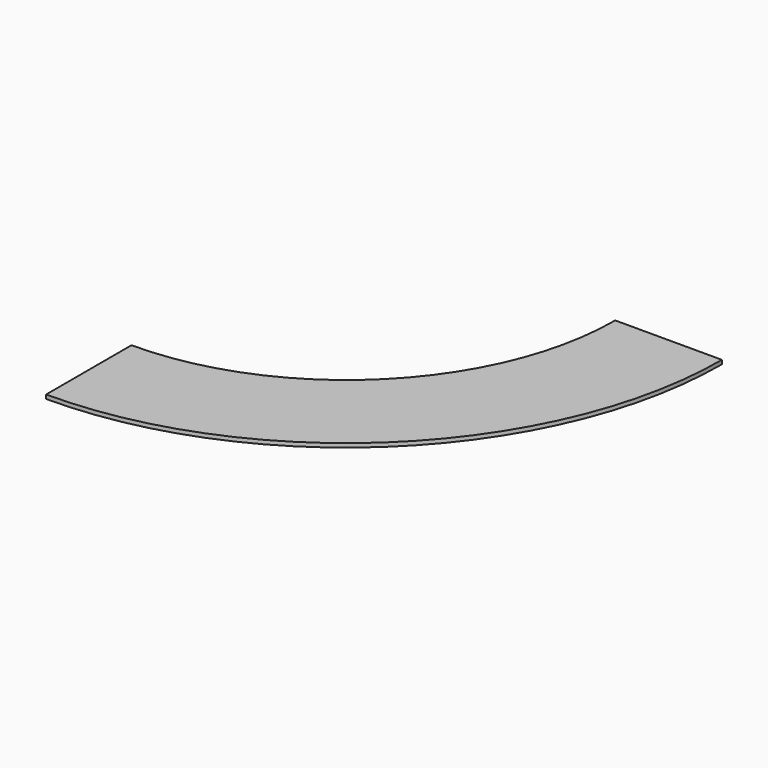
from build123d import *

# Parameters (mm, degrees)
REVOLUTION_ANGLE = -90


with BuildPart() as part:
    # Sketch → Revolution (revolve)
    with BuildSketch(Plane.XZ):
        Polygon((140, 25.020922), (136, 25.020922), (136, 16.020922), (140, 16.020922), (140, 23.020922), (190, 23.020922), (190, 25.020922), align=None)
    revolve(axis=Axis((0, 0, 0), (0, 0, 1)), revolution_arc=REVOLUTION_ANGLE)


solid = part.part
